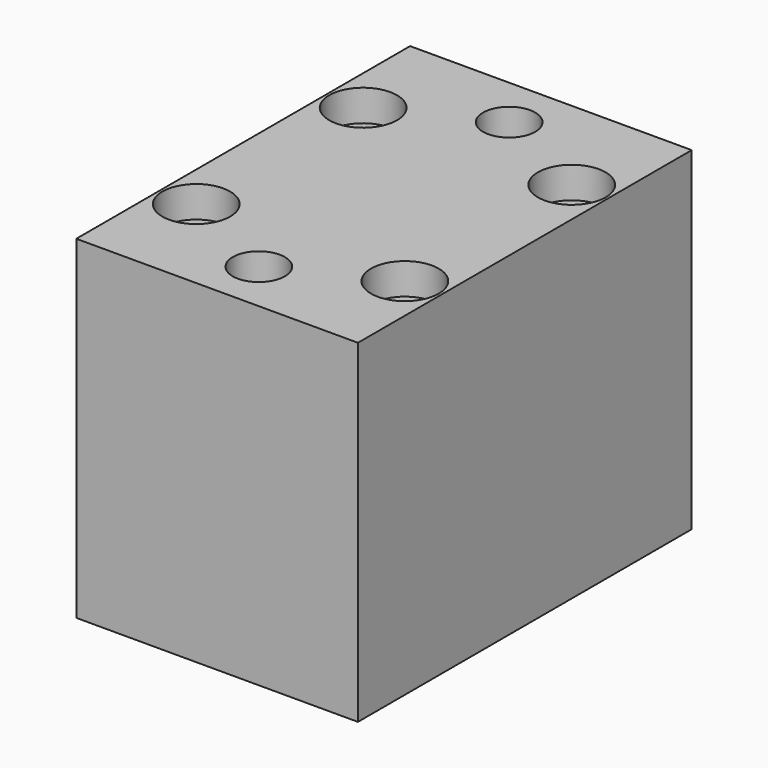
from build123d import *

# Parameters (mm, degrees)
F0_W           = 27
F0_H           = 40
F1_DEPTH       = 32
F3_D           = 3.3
F3_CBORE_D     = 6.5
F3_CBORE_DEPTH = 3
F4_D           = 5


with BuildPart() as f1:
    # F0 (on Top) → F1 (new body)
    with BuildSketch(Plane.XY):
        with Locations((-23.3004702032, -43.8329163194)):
            Rectangle(F0_W, F0_H)
    extrude(amount=F1_DEPTH)

    # F3 (through all)
    with Locations(Plane.XY.offset(32)):
        with Locations((-33.3004702032, -33.8329163194), (-13.3004702032, -33.8329163194), (-13.3004702032, -53.8329163194), (-33.3004702032, -53.8329163194)):
            CounterBoreHole(F3_D / 2, F3_CBORE_D / 2, F3_CBORE_DEPTH)

    # F4 (through all)
    with Locations(Plane.XY.offset(32)):
        with Locations((-23.3004702032, -28.8329163194), (-23.3004702032, -58.8329163194)):
            Hole(F4_D / 2)


solid = f1.part
